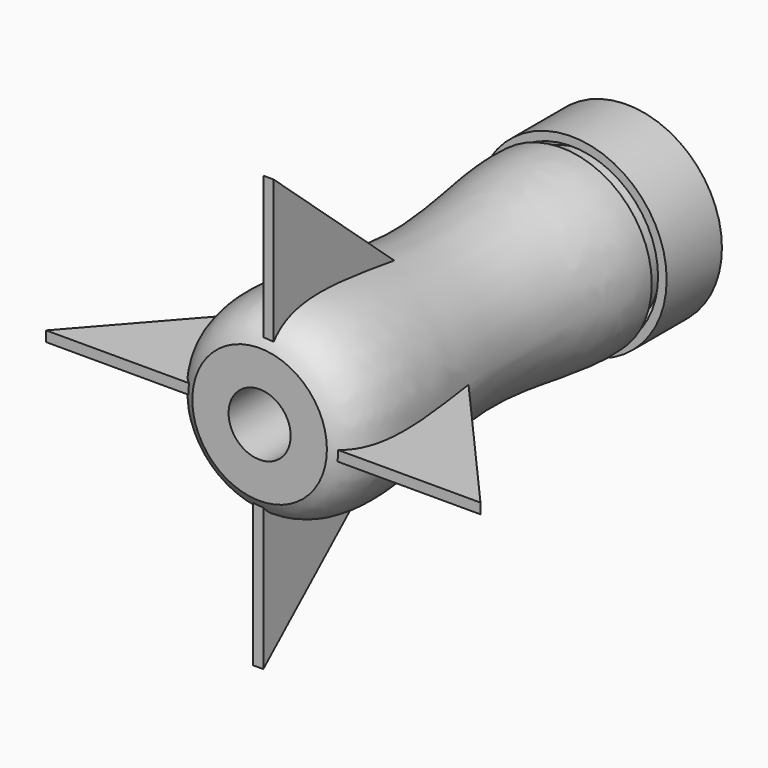
from build123d import *

# Parameters (mm, degrees)
F3_DEPTH = 3
F4_COUNT = 4
F5_R     = 9
F6_DEPTH = 64


with BuildPart() as f1:
    # F0 (on Top) → F1 (revolve)
    with BuildSketch(Plane.XY):
        Polygon((0, 78.3304050565), (0, 73.3296349645), (25.1227430999, 53.1712672173), (25.1227430999, 36.5037508309), (27.6194103062, 36.5037508309), (27.6194103062, 56.5263518006), align=None)
    revolve(axis=Axis((0, 0.458072871, 0), (0, 1, 0)))


with BuildPart() as f1b:
    # F0 (on Top) → F1, piece 2 (revolve)
    with BuildSketch(Plane.XY):
        with BuildLine():
            Line((0, 32.8392432414), (0, -76.4704482857))
            Line((0, -76.4704482857), (19.5072996486, -76.4704482857))
            add(Edge.make_bspline(
                [(19.5072996486, -76.4704482857), (34.0880141667, -69.7419434883), (15.8433199539, -12.5422067499), (27.1028720904, 19.1866374149), (26.2349213479, 32.8392432414)],
                knots=[0, 0, 0, 0, 0.5223373822, 1, 1, 1, 1], degree=3))
            Line((26.2349213479, 32.8392432414), (22.626074031, 32.8392432414))
            Line((22.626074031, 32.8392432414), (22.626074031, 40.5608378351))
            Line((22.626074031, 40.5608378351), (19.1931519657, 40.3733606302))
            Line((19.1931519657, 40.3733606302), (19.1931519657, 32.8392432414))
            Line((19.1931519657, 32.8392432414), (0, 32.8392432414))
        make_face()
    revolve(axis=Axis((0, 0.458072871, 0), (0, 1, 0)))

    # F2 (on Top) → F3 (join)
    with BuildSketch(Plane.XY):
        Polygon((-62.9644419025, -75.141005218), (-20.0095027685, -75.141005218), (-19.4292590022, -25.6603136659), align=None)
    extrude(amount=F3_DEPTH)

    # F4: F1b ×4 about axis
    f4_axis = Axis((0, 0.458072871, 0), (0, 1, 0))


with BuildPart() as f1b_1:
    add(f1b.part)
    for i in range(1, F4_COUNT):
        add(f1b.part.rotate(f4_axis, i * 360 / F4_COUNT))

    # F5 (on face) → F6 (cut)
    with BuildSketch(Plane.XZ.offset(76.4704482857)):
        Circle(F5_R)
    extrude(amount=-F6_DEPTH, mode=Mode.SUBTRACT)


solid = Compound([f1.part, f1b_1.part])
